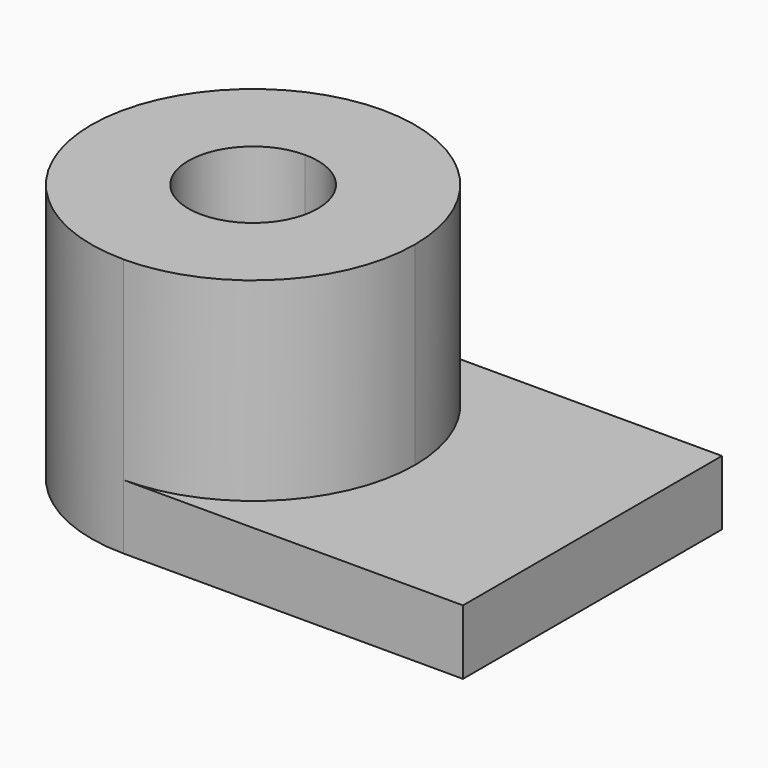
from build123d import *

# Parameters (mm, degrees)
F1_DEPTH = 12.7
F2_DEPTH = 50.8


with BuildPart() as f1:
    # F0 (on Top) → F1 (new body)
    with BuildSketch(Plane.XY):
        with BuildLine():
            ThreePointArc((-1.538598, 0), (-10.837958, -22.45064), (-33.288598, -31.75))
            Line((-33.288598, -31.75), (33.288598, -31.75))
            Line((33.288598, -31.75), (33.288598, 31.75))
            Line((33.288598, 31.75), (-33.288598, 31.75))
            ThreePointArc((-33.288598, 31.75), (-10.837958, 22.45064), (-1.538598, 0))
        make_face()
        with BuildLine():
            ThreePointArc((-33.288598, 31.75), (-65.038598, 0), (-33.288598, -31.75))
            Line((-33.288598, -31.75), (-33.288598, -12.7))
            ThreePointArc((-33.288598, -12.7), (-45.988598, 0), (-33.288598, 12.7))
            Line((-33.288598, 12.7), (-33.288598, 31.75))
        make_face()
    extrude(amount=F1_DEPTH)

    # F0 (on Top) → F2 (join)
    with BuildSketch(Plane.XY):
        with BuildLine():
            Line((-33.288598, -12.7), (-33.288598, -31.75))
            ThreePointArc((-33.288598, -31.75), (-10.837958, -22.45064), (-1.538598, 0))
            ThreePointArc((-1.538598, 0), (-10.837958, 22.45064), (-33.288598, 31.75))
            Line((-33.288598, 31.75), (-33.288598, 12.7))
            ThreePointArc((-33.288598, 12.7), (-24.308342, 8.980256), (-20.588598, 0))
            ThreePointArc((-20.588598, 0), (-24.308342, -8.980256), (-33.288598, -12.7))
        make_face()
        with BuildLine():
            ThreePointArc((-33.288598, 31.75), (-65.038598, 0), (-33.288598, -31.75))
            Line((-33.288598, -31.75), (-33.288598, -12.7))
            ThreePointArc((-33.288598, -12.7), (-45.988598, 0), (-33.288598, 12.7))
            Line((-33.288598, 12.7), (-33.288598, 31.75))
        make_face()
    extrude(amount=F2_DEPTH)


solid = f1.part
